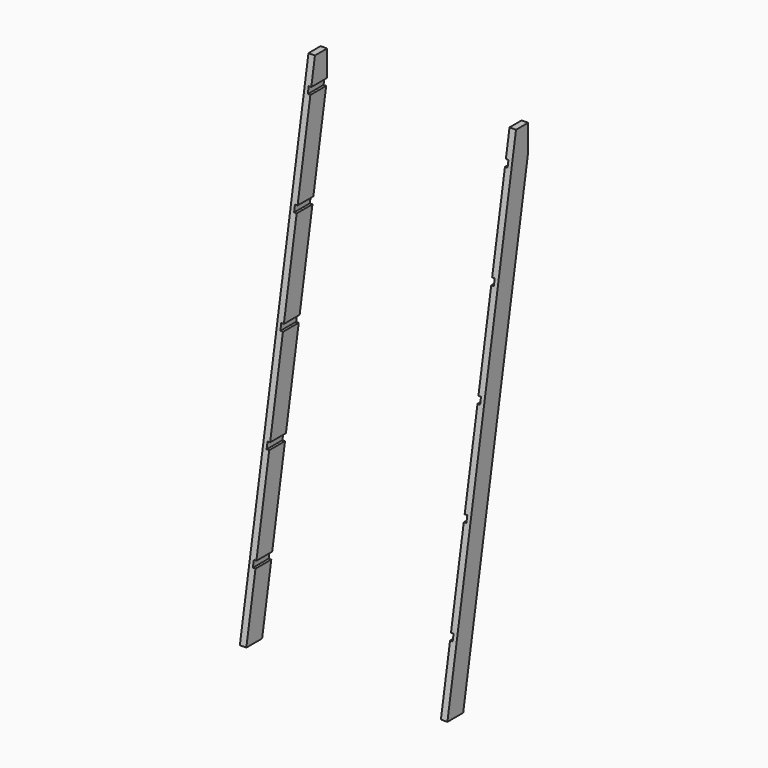
from build123d import *

# Parameters (mm, degrees)
F1_DEPTH = 20
F3_DEPTH = 8
F5_DEPTH = 20.001


with BuildPart() as f1:
    # F0 (on Right) → F1 (new body)
    with BuildSketch(Plane.YZ):
        Polygon((264.4904710627, 1500), (0, 0), (60.9255967131, 0), (325.4160677758, 1500), align=None)
    extrude(amount=F1_DEPTH)

    # F2 (on face) → F3 (cut)
    with BuildSketch(Plane(origin=(0, 0, 0), x_dir=(0, -1, 0), z_dir=(-1, 0, 0))):
        Polygon((-246.8577729919, 1400), (-250.384312606, 1420), (-311.3099093192, 1420), (-307.783369705, 1400), align=None)
        Polygon((-99.717532469, 220), (-96.1909928548, 200), (-35.2653961417, 200), (-38.7919357559, 220), align=None)
        Polygon((-152.6156266815, 520), (-149.0890870674, 500), (-88.1634903542, 500), (-91.6900299684, 520), align=None)
        Polygon((-205.5137208941, 820), (-201.9871812799, 800), (-141.0615845668, 800), (-144.5881241809, 820), align=None)
        Polygon((-258.4118151066, 1120), (-254.8852754925, 1100), (-193.9596787793, 1100), (-197.4862183935, 1120), align=None)
    extrude(amount=-F3_DEPTH, mode=Mode.SUBTRACT)

    # F4 (on face) → F5 (cut, through all)
    with BuildSketch(Plane(origin=(0, 0, 0), x_dir=(0, -1, 0), z_dir=(-1, 0, 0))):
        Polygon((-325.4160677758, 1500), (-311.3099093192, 1420), (-311.3099093192, 1500), align=None)
    extrude(amount=-F5_DEPTH, mode=Mode.SUBTRACT)


with BuildPart() as f7_1:
    # F7: instance of F1
    add(f1.part.mirror(Plane.YZ.offset(-300)))


solid = Compound([f1.part, f7_1.part])
